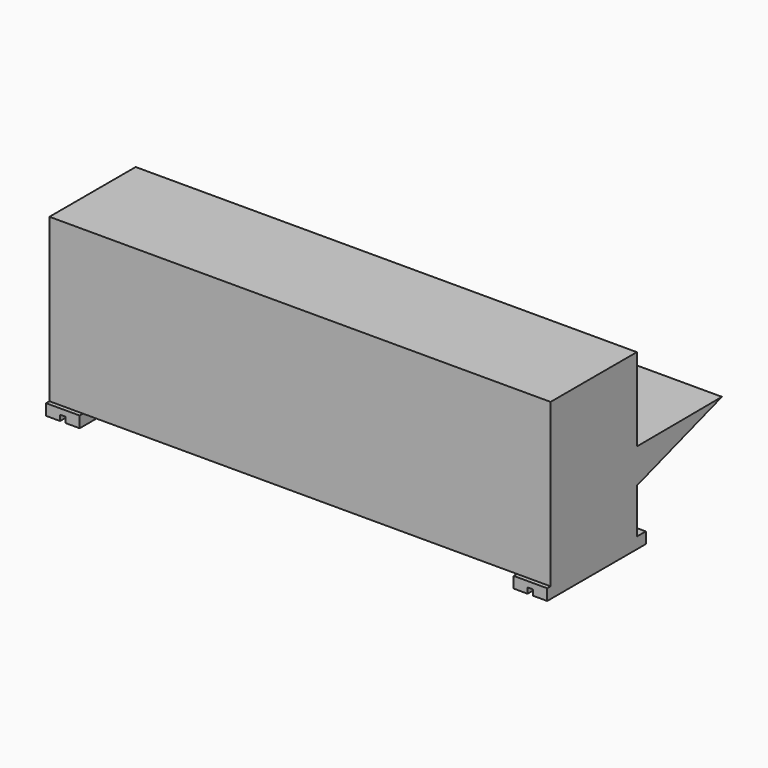
from build123d import *

# Parameters (mm, degrees)
F1_DEPTH      = 2273.3
F3_DEPTH      = 508
F3_DEPTH_BACK = 50.8


with BuildPart() as f1:
    # F0 (on Right) → F1 (new body)
    with BuildSketch(Plane.YZ):
        Polygon((-488.95, 0), (0, 0), (0, 203.2), (482.6, 361.95), (0, 359.795302), (0, 736.6), (-488.95, 736.6), align=None)
    extrude(amount=F1_DEPTH)

    # F2 (on Front) → F3 (join, two sides)
    with BuildSketch(Plane.XZ) as f3_sk:
        Polygon((76.2, 0), (0, 0), (0, -50.8), (63.5, -50.8), (63.5, -25.4), (88.9, -25.4), (88.9, -50.8), (152.4, -50.8), (152.4, 0), align=None)
        Polygon((2273.3, -50.8), (2273.3, 0), (2197.1, 0), (2120.9, 0), (2120.9, -50.8), (2184.4, -50.8), (2184.4, -25.4), (2209.8, -25.4), (2209.8, -50.8), align=None)
    extrude(amount=F3_DEPTH)
    extrude(f3_sk.sketch, amount=-F3_DEPTH_BACK)


solid = f1.part
